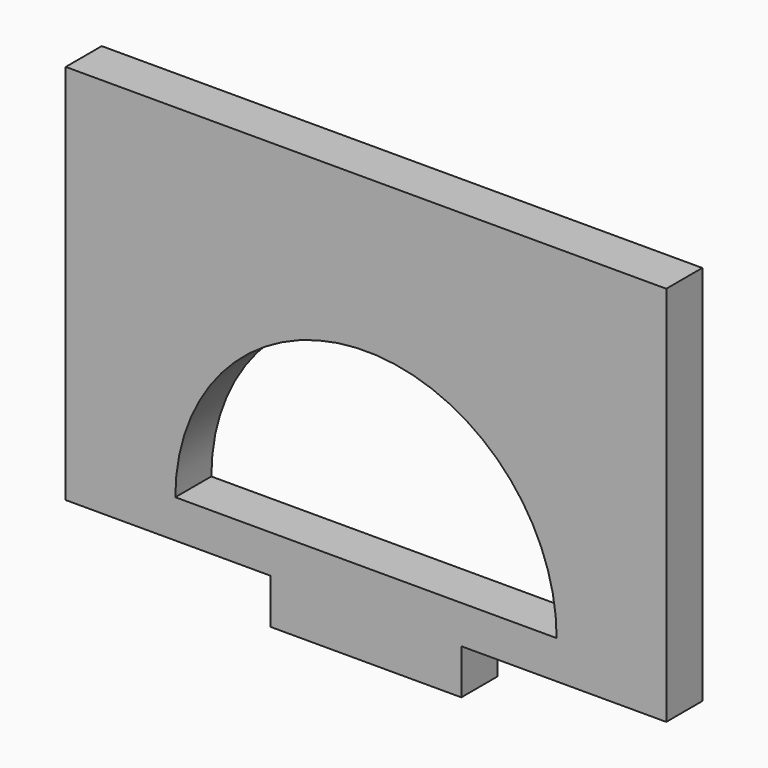
from build123d import *

# Parameters (mm, degrees)
F1_DEPTH = 3
F3_DEPTH = 3


with BuildPart() as f1:
    # F0 (on Front) → F1 (new body)
    with BuildSketch(Plane.XZ):
        Polygon((20, 12.7), (-20, 12.7), (-20, -12.7), (-6.35, -12.7), (-6.35, -15.7), (6.35, -15.7), (6.35, -12.7), (20, -12.7), align=None)
    extrude(amount=F1_DEPTH)

    # F2 (on face) → F3 (cut, through all)
    with BuildSketch(Plane.XZ.offset(3)):
        with BuildLine():
            Line((-12.7, -10.16), (12.7, -10.16))
            ThreePointArc((12.7, -10.16), (0, 2.54), (-12.7, -10.16))
        make_face()
    extrude(amount=-F3_DEPTH, mode=Mode.SUBTRACT)


solid = f1.part
